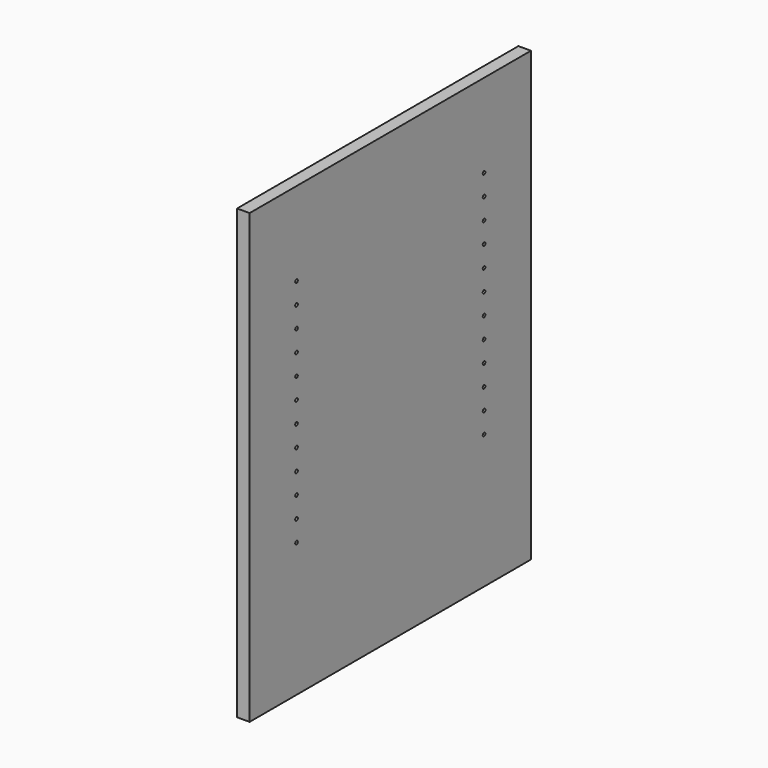
from build123d import *

# Parameters (mm, degrees)
F0_W     = 533.4
F0_H     = 679.45
F1_DEPTH = 19.05
F3_D     = 5.0038
F3_DEPTH = 14.224
F3_TIP   = 1.5032931827


with BuildPart() as f1:
    # F0 (on Right) → F1 (new body)
    with BuildSketch(Plane.YZ):
        Rectangle(F0_W, F0_H)
    extrude(amount=F1_DEPTH)

    # F3
    with Locations(Plane.YZ.offset(19.05)):
        with Locations((-177.8, 212.725), (-177.8, 180.975), (-177.8, 149.225), (-177.8, 117.475), (-177.8, 85.725), (-177.8, 53.975), (-177.8, 22.225), (-177.8, -9.525), (-177.8, -41.275), (-177.8, -73.025), (-177.8, -104.775), (-177.8, -136.525), (177.8, -136.525), (177.8, -104.775), (177.8, -73.025), (177.8, -41.275), (177.8, -9.525), (177.8, 22.225), (177.8, 53.975), (177.8, 85.725), (177.8, 117.475), (177.8, 149.225), (177.8, 180.975), (177.8, 212.725)):
            Hole(F3_D / 2, depth=F3_DEPTH)
            with Locations((0, 0, -(F3_DEPTH + F3_TIP / 2))):  # 118° drill point
                Cone(0, F3_D / 2, F3_TIP, mode=Mode.SUBTRACT)


solid = f1.part
